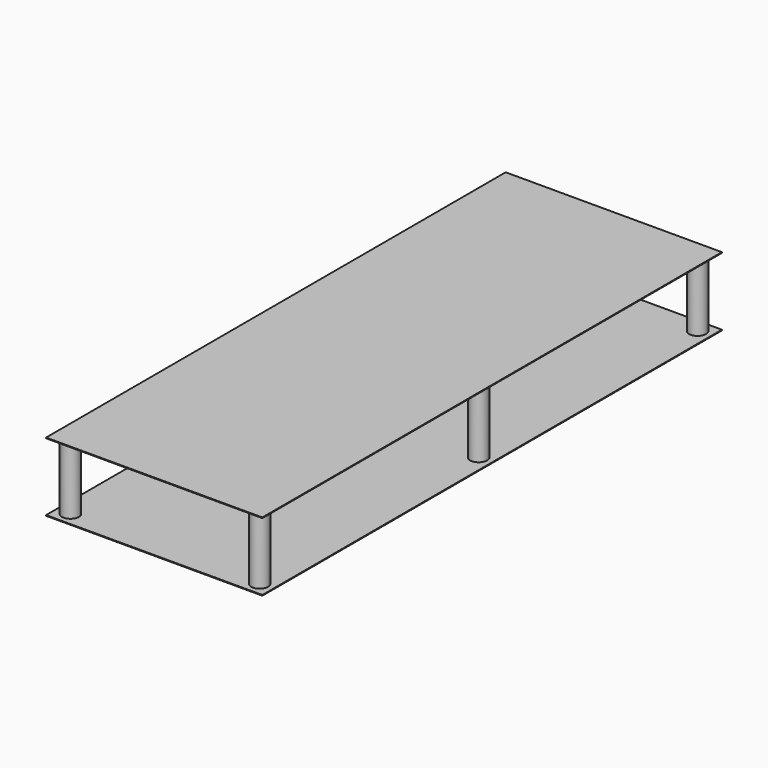
from build123d import *

# Parameters (mm, degrees)
F0_W     = 160
F0_H     = 425
F1_DEPTH = 0.5
F2_R     = 6.25
F3_DEPTH = 50
F4_W     = 160
F4_H     = 425
F5_DEPTH = 0.5


with BuildPart() as f1:
    # F0 (on Top) → F1 (new body)
    with BuildSketch(Plane.XY):
        Rectangle(F0_W, F0_H)
    extrude(amount=-F1_DEPTH)

    # F2 (on face) → F3 (join)
    with BuildSketch(Plane.XY):
        with Locations((-70, 202.5)):
            Circle(F2_R)
        with Locations((-70, 0)):
            Circle(F2_R)
        with Locations((-70, -202.5)):
            Circle(F2_R)
        with Locations((70, 202.5)):
            Circle(F2_R)
        with Locations((70, 0)):
            Circle(F2_R)
        with Locations((70, -202.5)):
            Circle(F2_R)
    extrude(amount=F3_DEPTH)

    # F4 (on face) → F5 (join)
    with BuildSketch(Plane.XY.offset(50)):
        Rectangle(F4_W, F4_H)
    extrude(amount=F5_DEPTH)


solid = f1.part
